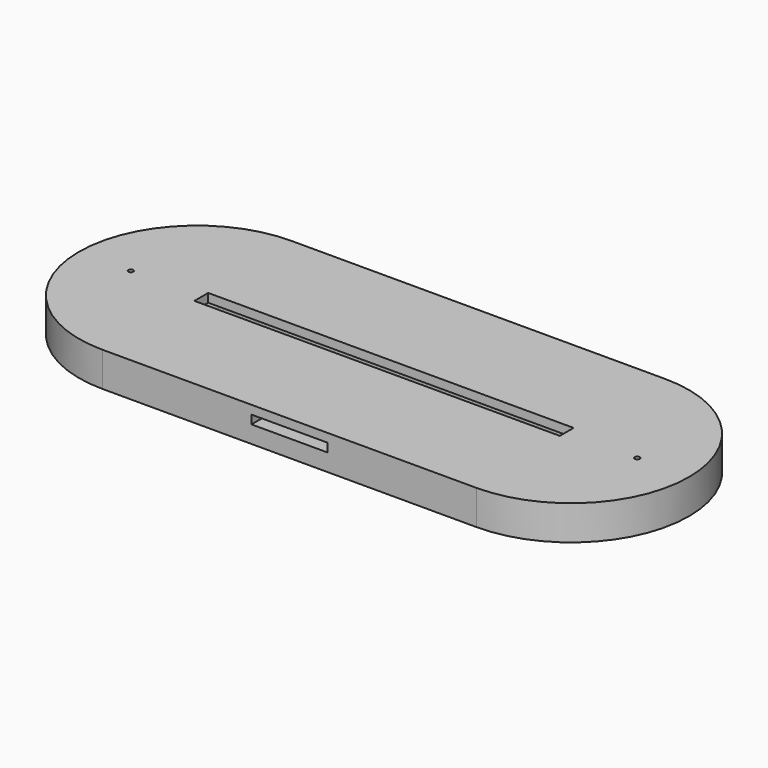
from build123d import *

# Parameters (mm, degrees)
PAD_DEPTH          = 9
POCKET_DEPTH       = 6
SKETCH002_W        = 26.5
SKETCH002_H        = 35
POCKET001_DEPTH    = 6
SKETCH003_W        = 127
SKETCH003_H        = 6
PAD001_DEPTH       = 3
SKETCH004_R        = 0.85
POCKET002_DEPTH    = 467.245989
POLARPATTERN_COUNT = 2
SKETCH005_W        = 26.5
SKETCH005_H        = 7.5
PAD002_DEPTH       = 3


with BuildPart() as part:
    # Sketch → Pad (new body)
    with BuildSketch(Plane.XY):
        with BuildLine():
            ThreePointArc((-65, 41), (-106, 0), (-65, -41))
            Line((-65, -41), (65, -41))
            ThreePointArc((65, -41), (106, 0), (65, 41))
            Line((-65, 41), (65, 41))
        make_face()
    extrude(amount=PAD_DEPTH)

    # Sketch001 (on Face6 of Pad) → Pocket (cut)
    with BuildSketch(Plane.XY.offset(9)):
        with BuildLine():
            ThreePointArc((-62.5, 6), (-68.5, 0), (-62.5, -6))
            Line((-62.5, -6), (62.5, -6))
            ThreePointArc((62.5, -6), (68.5, 0), (62.5, 6))
            Line((-62.5, 6), (62.5, 6))
        make_face()
    extrude(amount=-POCKET_DEPTH, mode=Mode.SUBTRACT)

    # Sketch002 (on Face5 of Pocket) → Pocket001 (cut)
    with BuildSketch(Plane.XY.offset(9)):
        with Locations((0, -23.5)):
            Rectangle(SKETCH002_W, SKETCH002_H)
    extrude(amount=-POCKET001_DEPTH, mode=Mode.SUBTRACT)

    # Sketch003 (on Face5 of Pocket001) → Pad001 (join)
    with BuildSketch(Plane.XY.offset(9)):
        with BuildLine():
            ThreePointArc((-65, 41), (-106, 0), (-65, -41))
            Line((-65, -41), (65, -41))
            ThreePointArc((65, -41), (106, 0), (65, 41))
            Line((-65, 41), (65, 41))
        make_face()
        Rectangle(SKETCH003_W, SKETCH003_H, mode=Mode.SUBTRACT)
    extrude(amount=PAD001_DEPTH)

    # Sketch004 (on Face12 of Pad001) → Pocket002 (cut, through all)
    with BuildSketch(Plane.XY.offset(12)):
        with Locations((-88, 0)):
            Circle(SKETCH004_R)
    pocket002 = extrude(amount=-POCKET002_DEPTH, mode=Mode.SUBTRACT)

    # PolarPattern: Pocket002 ×2 about axis
    polarpattern_axis = Axis((0, 0, 12), (0, 0, 1))
    for i in range(1, POLARPATTERN_COUNT):
        add(pocket002.rotate(polarpattern_axis, i * 360 / POLARPATTERN_COUNT), mode=Mode.SUBTRACT)

    # Sketch005 (on Face10 of PolarPattern) → Pad002 (join)
    with BuildSketch(Plane.XY.offset(3)):
        with Locations((0, -37.25)):
            Rectangle(SKETCH005_W, SKETCH005_H)
    extrude(amount=PAD002_DEPTH)


solid = part.part
